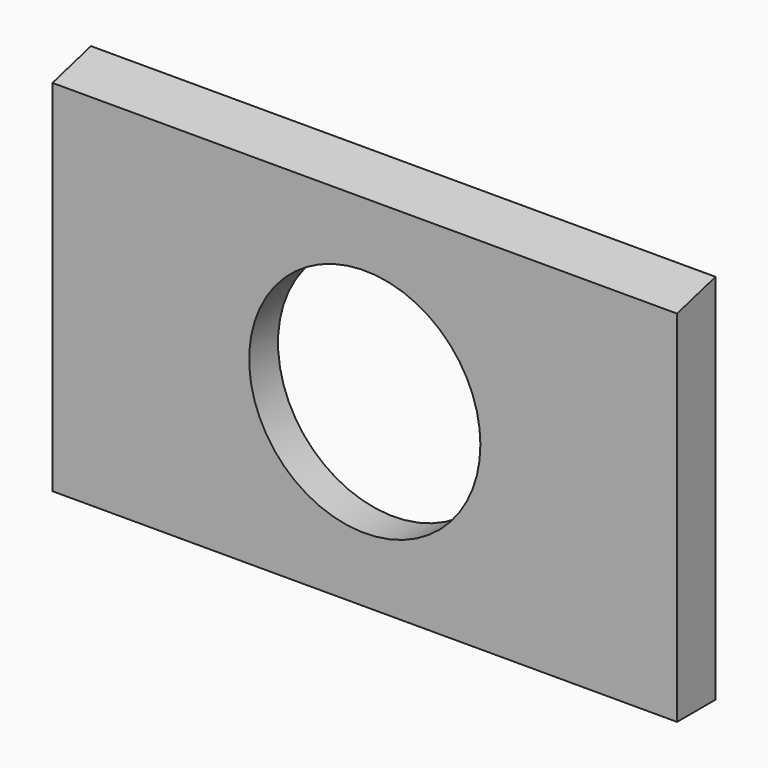
from build123d import *

# Parameters (mm, degrees)
F0_W     = 208
F0_H     = 124
F1_DEPTH = 16
F3_DEPTH = 240
F5_D     = 77
F6_R     = 52.5
F7_DEPTH = 4


with BuildPart() as f1:
    # F0 (on Front) → F1 (new body)
    with BuildSketch(Plane.XZ):
        with Locations((104, 62)):
            Rectangle(F0_W, F0_H)
    extrude(amount=F1_DEPTH)

    # F2 (on Right) → F3 (cut)
    with BuildSketch(Plane.YZ):
        Polygon((-16, 119.712813), (0, 124), (-16, 124), align=None)
    extrude(amount=F3_DEPTH, mode=Mode.SUBTRACT)

    # F5 (through all)
    with Locations(Plane(origin=(0, 0, 0), x_dir=(-1, 0, 0), z_dir=(0, 1, 0))):
        with Locations((-104, 60)):
            Hole(F5_D / 2)

    # F6 (on face) → F7 (cut)
    with BuildSketch(Plane(origin=(0, 0, 0), x_dir=(-1, 0, 0), z_dir=(0, 1, 0))):
        with Locations((-104, 60)):
            Circle(F6_R)
    extrude(amount=-F7_DEPTH, mode=Mode.SUBTRACT)


solid = f1.part
